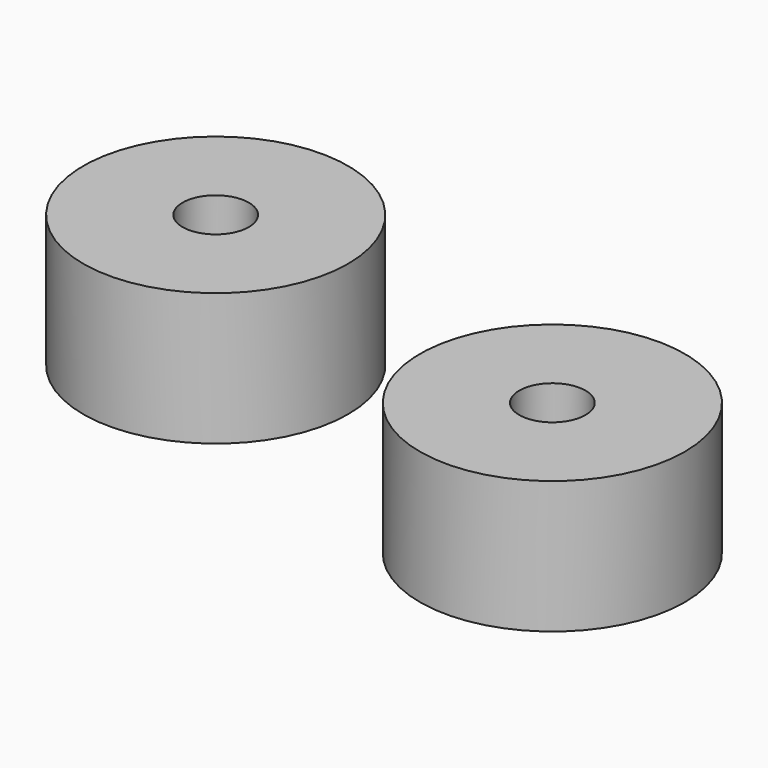
from build123d import *

# Parameters (mm, degrees)
F0_R     = 25.4
F0_R_2   = 6.35
F1_DEPTH = 25.4
F2_R     = 25.4
F2_R_2   = 6.35
F3_DEPTH = 12.7


with BuildPart() as f1:
    # F0 (on Top) → F1 (new body)
    with BuildSketch(Plane.XY):
        Circle(F0_R)
        Circle(F0_R_2, mode=Mode.SUBTRACT)
    extrude(amount=F1_DEPTH)


with BuildPart() as f3:
    # F2 (on Top) → F3 (new body, symmetric)
    with BuildSketch(Plane.XY):
        with Locations((62.196456, 2.95779)):
            Circle(F2_R)
        with Locations((62.196456, 2.95779)):
            Circle(F2_R_2, mode=Mode.SUBTRACT)
    extrude(amount=F3_DEPTH, both=True)


solid = Compound([f1.part, f3.part])
